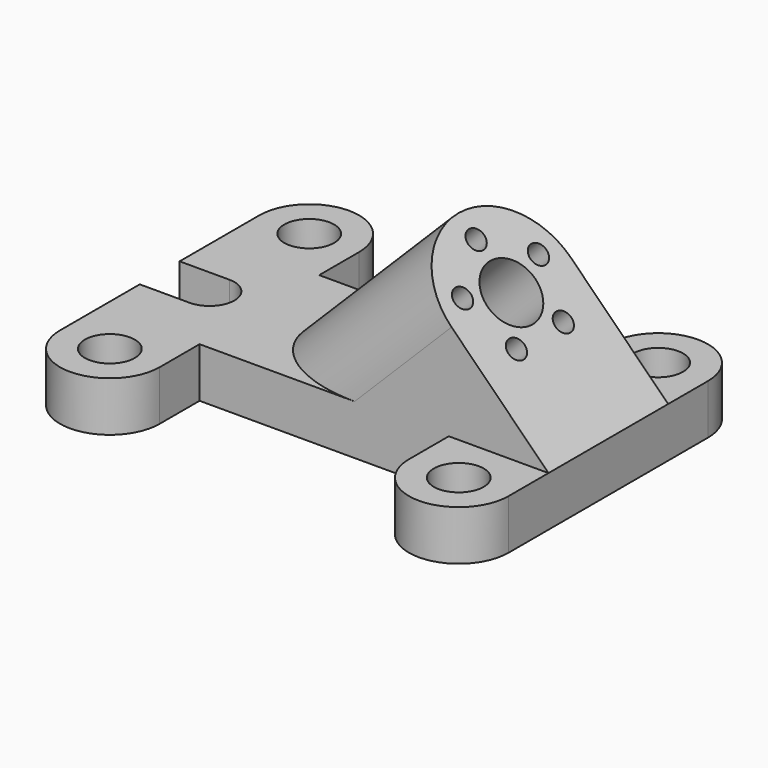
from build123d import *

# Parameters (mm, degrees)
F0_R     = 6.35
F1_DEPTH = 12.7
F3_R     = 2.54
F3_R_2   = 7.62
F5_DEPTH = 89.8035612107


with BuildPart() as f1:
    # F0 (on Top) → F1 (new body)
    with BuildSketch(Plane.XY):
        with BuildLine():
            Line((-31.75, -19.05), (0, -19.05))
            Line((0, -19.05), (0, 19.05))
            Line((0, 19.05), (-31.75, 19.05))
            Line((-31.75, 19.05), (-31.75, 31.75))
            ThreePointArc((-31.75, 31.75), (-44.45, 44.45), (-57.15, 31.75))
            Line((-57.15, 31.75), (-57.15, 6.35))
            Line((-57.15, 6.35), (-44.45, 6.35))
            ThreePointArc((-44.45, 6.35), (-38.1, 0), (-44.45, -6.35))
            Line((-44.45, -6.35), (-57.15, -6.35))
            Line((-57.15, -6.35), (-57.15, -31.75))
            ThreePointArc((-57.15, -31.75), (-44.45, -44.45), (-31.75, -31.75))
            Line((-31.75, -31.75), (-31.75, -19.05))
        make_face()
        with Locations((-44.45, -31.75)):
            Circle(F0_R, mode=Mode.SUBTRACT)
        with Locations((-44.45, 31.75)):
            Circle(F0_R, mode=Mode.SUBTRACT)
        with BuildLine():
            Line((0, 19.05), (0, -19.05))
            Line((0, -19.05), (31.75, -19.05))
            Line((31.75, -19.05), (31.75, -31.75))
            ThreePointArc((31.75, -31.75), (44.45, -44.45), (57.15, -31.75))
            Line((57.15, -31.75), (57.15, 31.75))
            ThreePointArc((57.15, 31.75), (44.45, 44.45), (31.75, 31.75))
            Line((31.75, 31.75), (31.75, 19.05))
            Line((31.75, 19.05), (0, 19.05))
        make_face()
        with Locations((44.45, -31.75)):
            Circle(F0_R, mode=Mode.SUBTRACT)
        with Locations((44.45, 31.75)):
            Circle(F0_R, mode=Mode.SUBTRACT)
    extrude(amount=-F1_DEPTH)

    # F3 (on face) → F4 (join, up to the next surface of F1)
    with BuildSketch(Plane(origin=(28.575, 0, 28.575), x_dir=(0, 1, 0), z_dir=(0.7071067812, 0, 0.7071067812))):
        with BuildLine():
            Line((-19.05, -40.4111525448), (0, -40.4111525448))
            Line((0, -40.4111525448), (19.05, -40.4111525448))
            Line((19.05, -40.4111525448), (19.05, -5.4861525448))
            ThreePointArc((19.05, -5.4861525448), (0, 13.5638474552), (-19.05, -5.4861525448))
            Line((-19.05, -5.4861525448), (-19.05, -40.4111525448))
        make_face()
        with Locations((-7.4648727041, -15.7606683734)):
            Circle(F3_R, mode=Mode.SUBTRACT)
        with Locations((7.4648727041, -15.7606683734)):
            Circle(F3_R, mode=Mode.SUBTRACT)
        with Locations((-12.0784177569, -1.5616367162)):
            Circle(F3_R, mode=Mode.SUBTRACT)
        with Locations((0, -5.4861525448)):
            Circle(F3_R_2, mode=Mode.SUBTRACT)
        with Locations((12.0784177569, -1.5616367162)):
            Circle(F3_R, mode=Mode.SUBTRACT)
        with Locations((0, 7.2138474552)):
            Circle(F3_R, mode=Mode.SUBTRACT)
    extrude(until=Until.NEXT, dir=(-0.7071067812, 0, -0.7071067812))

    # F3 (on face) → F5 (cut, through all)
    with BuildSketch(Plane(origin=(28.575, 0, 28.575), x_dir=(0, 1, 0), z_dir=(0.7071067812, 0, 0.7071067812))):
        with Locations((0, 7.2138474552)):
            Circle(F3_R)
        with Locations((12.0784177569, -1.5616367162)):
            Circle(F3_R)
        with Locations((7.4648727041, -15.7606683734)):
            Circle(F3_R)
        with Locations((-7.4648727041, -15.7606683734)):
            Circle(F3_R)
        with Locations((-12.0784177569, -1.5616367162)):
            Circle(F3_R)
        with Locations((0, -5.4861525448)):
            Circle(F3_R_2)
    extrude(amount=-F5_DEPTH, mode=Mode.SUBTRACT)


solid = f1.part
